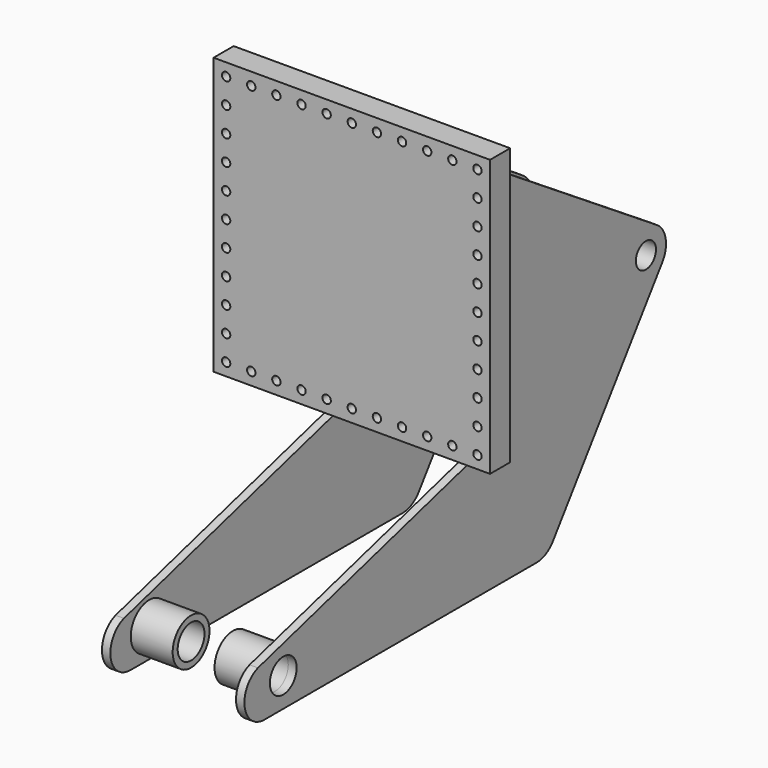
from build123d import *

# Parameters (mm, degrees)
F0_R      = 5
F0_W      = 270
F0_H      = 270
F1_DEPTH  = 30
F4_R      = 20
F4_R_2    = 22.5
F4_R_3    = 15
F5_DEPTH  = 10
F7_R      = 20
F7_R_2    = 22.5
F7_R_3    = 15
F8_DEPTH  = 10
F9_DEPTH  = 40
F10_DEPTH = 40
F13_R     = 27.5
F13_R_2   = 20
F14_DEPTH = 50
F15_R     = 27.5
F15_R_2   = 20
F16_DEPTH = 50


with BuildPart() as f1:
    # F0 (on Front) → F1 (new body)
    with BuildSketch(Plane.XZ):
        Polygon((-165, -165), (-135, -165), (75, -165), (165, -165), (165, 165), (-165, 165), align=None)
        with Locations((-150, -150)):
            Circle(F0_R, mode=Mode.SUBTRACT)
        with Locations((-150, -120)):
            Circle(F0_R, mode=Mode.SUBTRACT)
        with Locations((-120, -150)):
            Circle(F0_R, mode=Mode.SUBTRACT)
        with Locations((-90, -150)):
            Circle(F0_R, mode=Mode.SUBTRACT)
        with Locations((-60, -150)):
            Circle(F0_R, mode=Mode.SUBTRACT)
        with Locations((-30, -150)):
            Circle(F0_R, mode=Mode.SUBTRACT)
        with Locations((0, -150)):
            Circle(F0_R, mode=Mode.SUBTRACT)
        with Locations((30, -150)):
            Circle(F0_R, mode=Mode.SUBTRACT)
        with Locations((60, -150)):
            Circle(F0_R, mode=Mode.SUBTRACT)
        with Locations((90, -150)):
            Circle(F0_R, mode=Mode.SUBTRACT)
        with Locations((120, -150)):
            Circle(F0_R, mode=Mode.SUBTRACT)
        with Locations((150, -150)):
            Circle(F0_R, mode=Mode.SUBTRACT)
        with Locations((150, -120)):
            Circle(F0_R, mode=Mode.SUBTRACT)
        with Locations((-150, -90)):
            Circle(F0_R, mode=Mode.SUBTRACT)
        with Locations((-150, -60)):
            Circle(F0_R, mode=Mode.SUBTRACT)
        with Locations((-150, -30)):
            Circle(F0_R, mode=Mode.SUBTRACT)
        with Locations((-150, 0)):
            Circle(F0_R, mode=Mode.SUBTRACT)
        with Locations((-150, 30)):
            Circle(F0_R, mode=Mode.SUBTRACT)
        with Locations((-150, 60)):
            Circle(F0_R, mode=Mode.SUBTRACT)
        with Locations((-150, 90)):
            Circle(F0_R, mode=Mode.SUBTRACT)
        with Locations((-150, 120)):
            Circle(F0_R, mode=Mode.SUBTRACT)
        with Locations((-150, 150)):
            Circle(F0_R, mode=Mode.SUBTRACT)
        with Locations((-120, 150)):
            Circle(F0_R, mode=Mode.SUBTRACT)
        with Locations((-90, 150)):
            Circle(F0_R, mode=Mode.SUBTRACT)
        with Locations((-60, 150)):
            Circle(F0_R, mode=Mode.SUBTRACT)
        with Locations((-30, 150)):
            Circle(F0_R, mode=Mode.SUBTRACT)
        Rectangle(F0_W, F0_H, mode=Mode.SUBTRACT)
        with Locations((150, -90)):
            Circle(F0_R, mode=Mode.SUBTRACT)
        with Locations((150, -60)):
            Circle(F0_R, mode=Mode.SUBTRACT)
        with Locations((150, -30)):
            Circle(F0_R, mode=Mode.SUBTRACT)
        with Locations((150, 0)):
            Circle(F0_R, mode=Mode.SUBTRACT)
        with Locations((150, 30)):
            Circle(F0_R, mode=Mode.SUBTRACT)
        with Locations((0, 150)):
            Circle(F0_R, mode=Mode.SUBTRACT)
        with Locations((30, 150)):
            Circle(F0_R, mode=Mode.SUBTRACT)
        with Locations((60, 150)):
            Circle(F0_R, mode=Mode.SUBTRACT)
        with Locations((150, 60)):
            Circle(F0_R, mode=Mode.SUBTRACT)
        with Locations((150, 90)):
            Circle(F0_R, mode=Mode.SUBTRACT)
        with Locations((90, 150)):
            Circle(F0_R, mode=Mode.SUBTRACT)
        with Locations((120, 150)):
            Circle(F0_R, mode=Mode.SUBTRACT)
        with BuildLine():
            ThreePointArc((155, 120), (146.4644660941, 116.4644660941), (150, 125))
            ThreePointArc((150, 125), (153.5355339059, 123.5355339059), (155, 120))
        make_face(mode=Mode.SUBTRACT)
        with BuildLine():
            ThreePointArc((155, 150), (153.5355339059, 146.4644660941), (150, 145))
            ThreePointArc((150, 145), (146.4644660941, 153.5355339059), (155, 150))
        make_face(mode=Mode.SUBTRACT)
        Polygon((-165, -165), (-135, -165), (75, -165), (165, -165), (165, 165), (-165, 165), align=None)
        with Locations((-150, -150)):
            Circle(F0_R, mode=Mode.SUBTRACT)
        with Locations((-150, -120)):
            Circle(F0_R, mode=Mode.SUBTRACT)
        with Locations((-120, -150)):
            Circle(F0_R, mode=Mode.SUBTRACT)
        with Locations((-90, -150)):
            Circle(F0_R, mode=Mode.SUBTRACT)
        with Locations((-60, -150)):
            Circle(F0_R, mode=Mode.SUBTRACT)
        with Locations((-30, -150)):
            Circle(F0_R, mode=Mode.SUBTRACT)
        with Locations((0, -150)):
            Circle(F0_R, mode=Mode.SUBTRACT)
        with Locations((30, -150)):
            Circle(F0_R, mode=Mode.SUBTRACT)
        with Locations((60, -150)):
            Circle(F0_R, mode=Mode.SUBTRACT)
        with Locations((90, -150)):
            Circle(F0_R, mode=Mode.SUBTRACT)
        with Locations((120, -150)):
            Circle(F0_R, mode=Mode.SUBTRACT)
        with Locations((150, -150)):
            Circle(F0_R, mode=Mode.SUBTRACT)
        with Locations((150, -120)):
            Circle(F0_R, mode=Mode.SUBTRACT)
        with Locations((-150, -90)):
            Circle(F0_R, mode=Mode.SUBTRACT)
        with Locations((-150, -60)):
            Circle(F0_R, mode=Mode.SUBTRACT)
        with Locations((-150, -30)):
            Circle(F0_R, mode=Mode.SUBTRACT)
        with Locations((-150, 0)):
            Circle(F0_R, mode=Mode.SUBTRACT)
        with Locations((-150, 30)):
            Circle(F0_R, mode=Mode.SUBTRACT)
        with Locations((-150, 60)):
            Circle(F0_R, mode=Mode.SUBTRACT)
        with Locations((-150, 90)):
            Circle(F0_R, mode=Mode.SUBTRACT)
        with Locations((-150, 120)):
            Circle(F0_R, mode=Mode.SUBTRACT)
        with Locations((-150, 150)):
            Circle(F0_R, mode=Mode.SUBTRACT)
        with Locations((-120, 150)):
            Circle(F0_R, mode=Mode.SUBTRACT)
        with Locations((-90, 150)):
            Circle(F0_R, mode=Mode.SUBTRACT)
        with Locations((-60, 150)):
            Circle(F0_R, mode=Mode.SUBTRACT)
        with Locations((-30, 150)):
            Circle(F0_R, mode=Mode.SUBTRACT)
        Rectangle(F0_W, F0_H, mode=Mode.SUBTRACT)
        with Locations((150, -90)):
            Circle(F0_R, mode=Mode.SUBTRACT)
        with Locations((150, -60)):
            Circle(F0_R, mode=Mode.SUBTRACT)
        with Locations((150, -30)):
            Circle(F0_R, mode=Mode.SUBTRACT)
        with Locations((150, 0)):
            Circle(F0_R, mode=Mode.SUBTRACT)
        with Locations((150, 30)):
            Circle(F0_R, mode=Mode.SUBTRACT)
        with Locations((0, 150)):
            Circle(F0_R, mode=Mode.SUBTRACT)
        with Locations((30, 150)):
            Circle(F0_R, mode=Mode.SUBTRACT)
        with Locations((60, 150)):
            Circle(F0_R, mode=Mode.SUBTRACT)
        with Locations((150, 60)):
            Circle(F0_R, mode=Mode.SUBTRACT)
        with Locations((150, 90)):
            Circle(F0_R, mode=Mode.SUBTRACT)
        with Locations((90, 150)):
            Circle(F0_R, mode=Mode.SUBTRACT)
        with Locations((120, 150)):
            Circle(F0_R, mode=Mode.SUBTRACT)
        with BuildLine():
            ThreePointArc((155, 120), (146.4644660941, 116.4644660941), (150, 125))
            ThreePointArc((150, 125), (153.5355339059, 123.5355339059), (155, 120))
        make_face(mode=Mode.SUBTRACT)
        with BuildLine():
            ThreePointArc((155, 150), (153.5355339059, 146.4644660941), (150, 145))
            ThreePointArc((150, 145), (146.4644660941, 153.5355339059), (155, 150))
        make_face(mode=Mode.SUBTRACT)
        Rectangle(F0_W, F0_H)
    extrude(amount=-F1_DEPTH)

    # F4 (on offset) → F5 (join)
    with BuildSketch(Plane.YZ.offset(115)):
        with BuildLine():
            Line((298.8869523608, -37.9796266225), (33.3473250322, 134.1293910905))
            ThreePointArc((33.3473250322, 134.1293910905), (28.2401068156, 134.3266539493), (25.6278477609, 129.9336261577))
            Line((25.6278477609, 129.9336261577), (25.6278477609, -168.7413089787))
            ThreePointArc((25.6278477609, -168.7413089787), (24.6061971658, -171.7699614864), (21.9587533559, -173.5609241394))
            Line((21.9587533559, -173.5609241394), (-296.2802540275, -261.4405704084))
            ThreePointArc((-296.2802540275, -261.4405704084), (-316.0594091243, -294.7644344742), (-286.4742492609, -319.7926826845))
            Line((-286.4742492609, -319.7926826845), (119.3903928782, -319.7926826845))
            ThreePointArc((119.3903928782, -319.7926826845), (133.0674858943, -316.4935651911), (143.7364231218, -307.3218244599))
            Line((143.7364231218, -307.3218244599), (306.9161189768, -80.6833579945))
            ThreePointArc((306.9161189768, -80.6833579945), (312.0534722359, -57.6107428284), (298.8869523608, -37.9796266225))
        make_face()
        with Locations((-258.5189006871, -284.8317994661)):
            Circle(F4_R, mode=Mode.SUBTRACT)
        with Locations((282.5700887333, -63.1542162192)):
            Circle(F4_R_2, mode=Mode.SUBTRACT)
        with Locations((282.5700887333, -63.1542162192)):
            Circle(F4_R_2)
        with Locations((282.5700887333, -63.1542162192)):
            Circle(F4_R_3, mode=Mode.SUBTRACT)
    extrude(amount=F5_DEPTH)

    # F7 (on offset) → F8 (join)
    with BuildSketch(Plane.YZ.offset(-35)):
        with BuildLine():
            ThreePointArc((33.3473250322, 134.1293910905), (28.2401068156, 134.3266539493), (25.6278477609, 129.9336261577))
            Line((25.6278477609, 129.9336261577), (25.6278477609, -168.7413089787))
            ThreePointArc((25.6278477609, -168.7413089787), (24.6061971658, -171.7699614864), (21.9587533559, -173.5609241394))
            Line((21.9587533559, -173.5609241394), (-296.2802540275, -261.4405704084))
            ThreePointArc((-296.2802540275, -261.4405704084), (-316.0594091243, -294.7644344742), (-286.4742492609, -319.7926826845))
            Line((-286.4742492609, -319.7926826845), (119.3903928782, -319.7926826845))
            ThreePointArc((119.3903928782, -319.7926826845), (133.0674858943, -316.4935651911), (143.7364231218, -307.3218244599))
            Line((143.7364231218, -307.3218244599), (306.9161189768, -80.6833579945))
            ThreePointArc((306.9161189768, -80.6833579945), (312.0534722359, -57.6107428284), (298.8869523608, -37.9796266225))
            Line((298.8869523608, -37.9796266225), (33.3473250322, 134.1293910905))
        make_face()
        with Locations((-258.5189006871, -284.8317994661)):
            Circle(F7_R, mode=Mode.SUBTRACT)
        with Locations((282.5700887333, -63.1542162192)):
            Circle(F7_R_2, mode=Mode.SUBTRACT)
        with Locations((282.5700887333, -63.1542162192)):
            Circle(F7_R_2)
        with Locations((282.5700887333, -63.1542162192)):
            Circle(F7_R_3, mode=Mode.SUBTRACT)
    extrude(amount=-F8_DEPTH)

    # F7 (on offset) → F9 (join)
    with BuildSketch(Plane.YZ.offset(-35)):
        with Locations((282.5700887333, -63.1542162192)):
            Circle(F7_R_2)
        with Locations((282.5700887333, -63.1542162192)):
            Circle(F7_R_3, mode=Mode.SUBTRACT)
    extrude(amount=F9_DEPTH)

    # F4 (on offset) → F10 (join)
    with BuildSketch(Plane.YZ.offset(115)):
        with Locations((282.5700887333, -63.1542162192)):
            Circle(F4_R_2)
        with Locations((282.5700887333, -63.1542162192)):
            Circle(F4_R_3, mode=Mode.SUBTRACT)
    extrude(amount=-F10_DEPTH)

    # F13 (on face) → F14 (join)
    with BuildSketch(Plane.YZ.offset(-35)):
        with Locations((-258.5189006871, -284.8317994661)):
            Circle(F13_R)
        with Locations((-258.5189006871, -284.8317994661)):
            Circle(F13_R_2, mode=Mode.SUBTRACT)
    extrude(amount=F14_DEPTH)

    # F15 (on face) → F16 (join)
    with BuildSketch(Plane.YZ.offset(115)):
        with Locations((-258.5189006871, -284.8317994661)):
            Circle(F15_R)
        with Locations((-258.5189006871, -284.8317994661)):
            Circle(F15_R_2, mode=Mode.SUBTRACT)
    extrude(amount=-F16_DEPTH)


solid = f1.part
